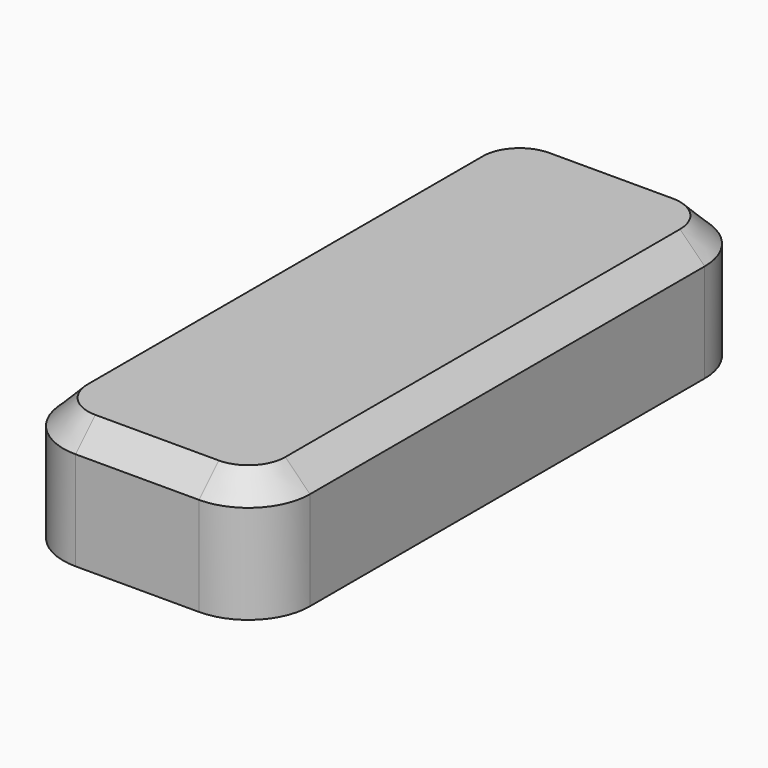
from build123d import *

# Parameters (mm, degrees)
F0_W     = 50.8
F0_H     = 25.4
F1_DEPTH = 127
F2_R     = 12.7
F3_SIZE  = 5.08
F4_T     = -5.08


with BuildPart() as f1:
    # F0 (on Front) → F1 (new body)
    with BuildSketch(Plane.XZ):
        with Locations((25.4, 12.7)):
            Rectangle(F0_W, F0_H)
    extrude(amount=-F1_DEPTH)

    # F2
    f2_edges = [f1.edges().sort_by_distance(p)[0] for p in [
        (0, 0, 12.7),
        (50.8, 0, 12.7),
        (50.8, 127, 12.7),
        (0, 127, 12.7),
    ]]
    fillet(f2_edges, radius=F2_R)

    # F3
    f3_edges = [f1.edges().sort_by_distance(p)[0] for p in [
        (50.8, 63.5, 25.4),
    ]]
    chamfer(f3_edges, length=F3_SIZE)

    # F4
    f4_openings = [f1.faces().sort_by_distance(p)[0] for p in [
        (25.4, 63.5, 0),
    ]]
    offset(amount=F4_T, openings=f4_openings)


solid = f1.part
